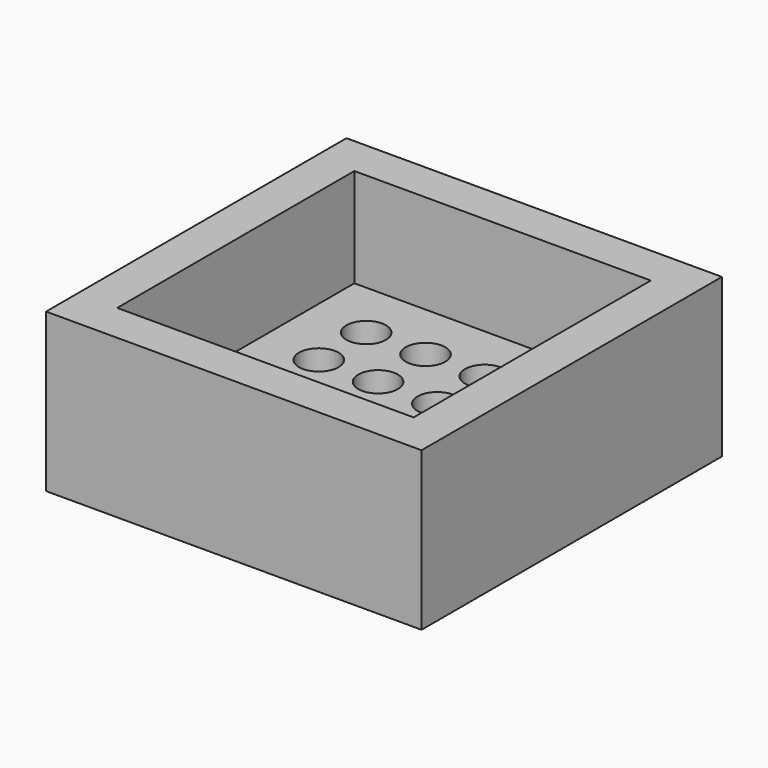
from build123d import *

# Parameters (mm, degrees)
F0_W     = 95
F0_H     = 95
F0_R     = 5
F1_DEPTH = 15
F2_W     = 95
F2_H     = 95
F2_W_2   = 75
F2_H_2   = 75
F3_DEPTH = 25


with BuildPart() as f1:
    # F0 (on Top) → F1 (new body)
    with BuildSketch(Plane.XY):
        with Locations((47.5, 47.5)):
            Rectangle(F0_W, F0_H)
        with Locations((25, 25)):
            Circle(F0_R, mode=Mode.SUBTRACT)
        with Locations((40, 25)):
            Circle(F0_R, mode=Mode.SUBTRACT)
        with Locations((25, 40)):
            Circle(F0_R, mode=Mode.SUBTRACT)
        with Locations((40, 40)):
            Circle(F0_R, mode=Mode.SUBTRACT)
        with Locations((55, 25)):
            Circle(F0_R, mode=Mode.SUBTRACT)
        with Locations((70, 25)):
            Circle(F0_R, mode=Mode.SUBTRACT)
        with Locations((55, 40)):
            Circle(F0_R, mode=Mode.SUBTRACT)
        with Locations((70, 40)):
            Circle(F0_R, mode=Mode.SUBTRACT)
        with Locations((25, 55)):
            Circle(F0_R, mode=Mode.SUBTRACT)
        with Locations((40, 55)):
            Circle(F0_R, mode=Mode.SUBTRACT)
        with Locations((25, 70)):
            Circle(F0_R, mode=Mode.SUBTRACT)
        with Locations((40, 70)):
            Circle(F0_R, mode=Mode.SUBTRACT)
        with Locations((55, 55)):
            Circle(F0_R, mode=Mode.SUBTRACT)
        with Locations((70, 55)):
            Circle(F0_R, mode=Mode.SUBTRACT)
        with Locations((55, 70)):
            Circle(F0_R, mode=Mode.SUBTRACT)
        with Locations((70, 70)):
            Circle(F0_R, mode=Mode.SUBTRACT)
    extrude(amount=F1_DEPTH)

    # F2 (on face) → F3 (join)
    with BuildSketch(Plane.XY.offset(15)):
        with Locations((47.5, 47.5)):
            Rectangle(F2_W, F2_H)
        with Locations((47.5, 47.5)):
            Rectangle(F2_W_2, F2_H_2, mode=Mode.SUBTRACT)
    extrude(amount=F3_DEPTH)


solid = f1.part
